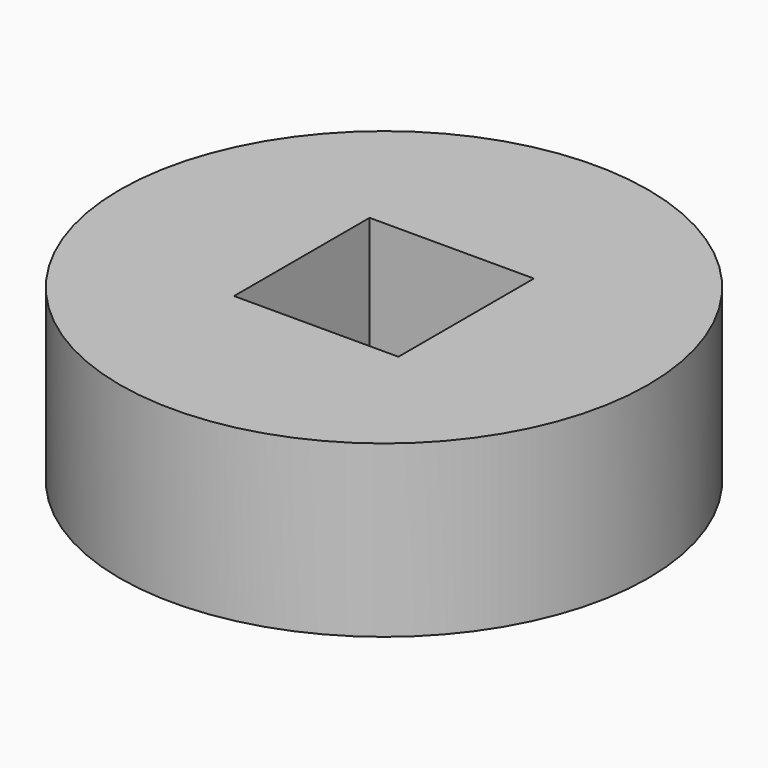
from build123d import *

# Parameters (mm, degrees)
F0_R     = 39.39632
F1_DEPTH = 25.4


with BuildPart() as f1:
    # F0 (on Top) → F1 (new body)
    with BuildSketch(Plane.XY):
        Circle(F0_R)
        Polygon((-12.259586, -12.635498), (-12.259586, 0), (-12.259586, 12.635498), (0, 12.635498), (12.259586, 12.635498), (12.259586, 0), (12.259586, -12.635498), (0, -12.635498), align=None, mode=Mode.SUBTRACT)
    extrude(amount=F1_DEPTH)


solid = f1.part
